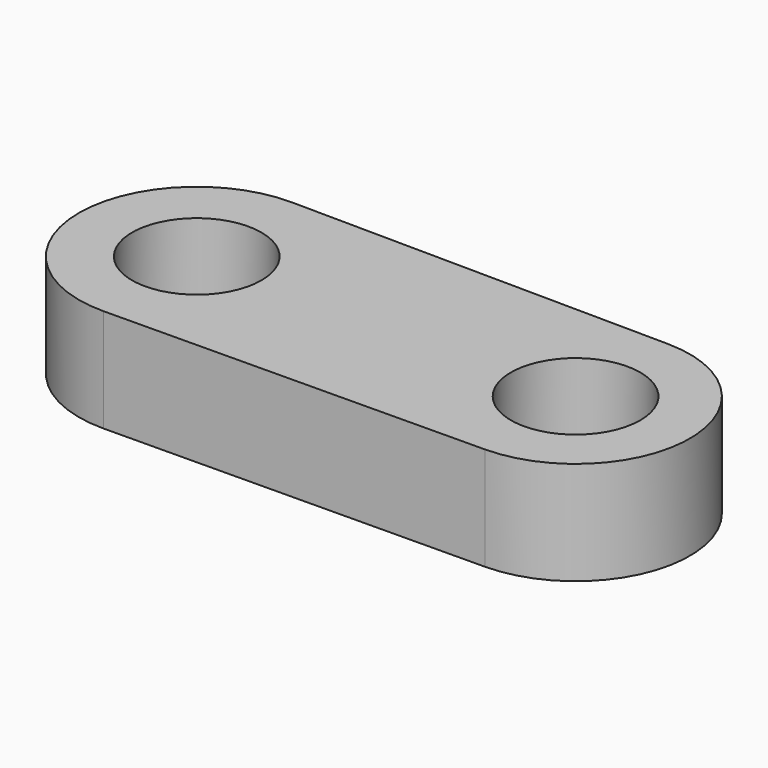
from build123d import *

# Parameters (mm, degrees)
F0_R     = 15.920661
F1_DEPTH = 25.4


with BuildPart() as f1:
    # F0 (on Top) → F1 (new body)
    with BuildSketch(Plane.XY):
        with BuildLine():
            Line((46.842293, 28.102132), (-46.308367, 28.973528))
            ThreePointArc((-46.308367, 28.973528), (-17.604609, 0), (-46.308367, -28.973528))
            Line((-46.308367, -28.973528), (46.842293, -28.102132))
            ThreePointArc((46.842293, -28.102132), (74.682768, 0), (46.842293, 28.102132))
        make_face()
        with Locations((46.579406, 0)):
            Circle(F0_R, mode=Mode.SUBTRACT)
        with BuildLine():
            ThreePointArc((-46.308367, -28.973528), (-17.604609, 0), (-46.308367, 28.973528))
            ThreePointArc((-46.308367, 28.973528), (-75.554202, 0), (-46.308367, -28.973528))
        make_face()
        with Locations((-46.579406, 0)):
            Circle(F0_R, mode=Mode.SUBTRACT)
    extrude(amount=F1_DEPTH)


solid = f1.part
